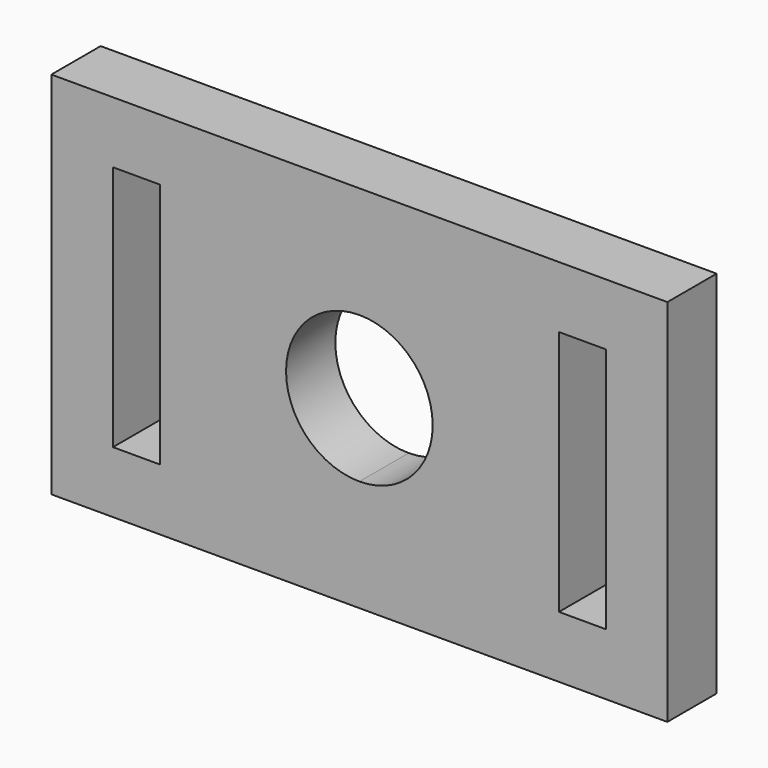
from build123d import *

# Parameters (mm, degrees)
F0_W     = 19.304
F0_H     = 101.6
F1_DEPTH = 25.4


with BuildPart() as f1:
    # F0 (on Front) → F1 (new body)
    with BuildSketch(Plane.XZ):
        with BuildLine():
            Line((22.359311, 83.928225), (-104.640689, 83.928225))
            Line((-104.640689, 83.928225), (-104.640689, -68.471775))
            Line((-104.640689, -68.471775), (22.359311, -68.471775))
            Line((22.359311, -68.471775), (22.359311, -22.497775))
            ThreePointArc((22.359311, -22.497775), (-7.866689, 7.728225), (22.359311, 37.954225))
            Line((22.359311, 37.954225), (22.359311, 83.928225))
        make_face()
        with Locations((-69.588689, 7.728225)):
            Rectangle(F0_W, F0_H, mode=Mode.SUBTRACT)
        with BuildLine():
            Line((149.359311, 83.928225), (22.359311, 83.928225))
            Line((22.359311, 83.928225), (22.359311, 37.954225))
            ThreePointArc((22.359311, 37.954225), (43.732321, 29.101234), (52.585311, 7.728225))
            ThreePointArc((52.585311, 7.728225), (43.732321, -13.644785), (22.359311, -22.497775))
            Line((22.359311, -22.497775), (22.359311, -68.471775))
            Line((22.359311, -68.471775), (149.359311, -68.471775))
            Line((149.359311, -68.471775), (149.359311, 83.928225))
        make_face()
        with Locations((114.307311, 7.728225)):
            Rectangle(F0_W, F0_H, mode=Mode.SUBTRACT)
    extrude(amount=F1_DEPTH)


solid = f1.part
